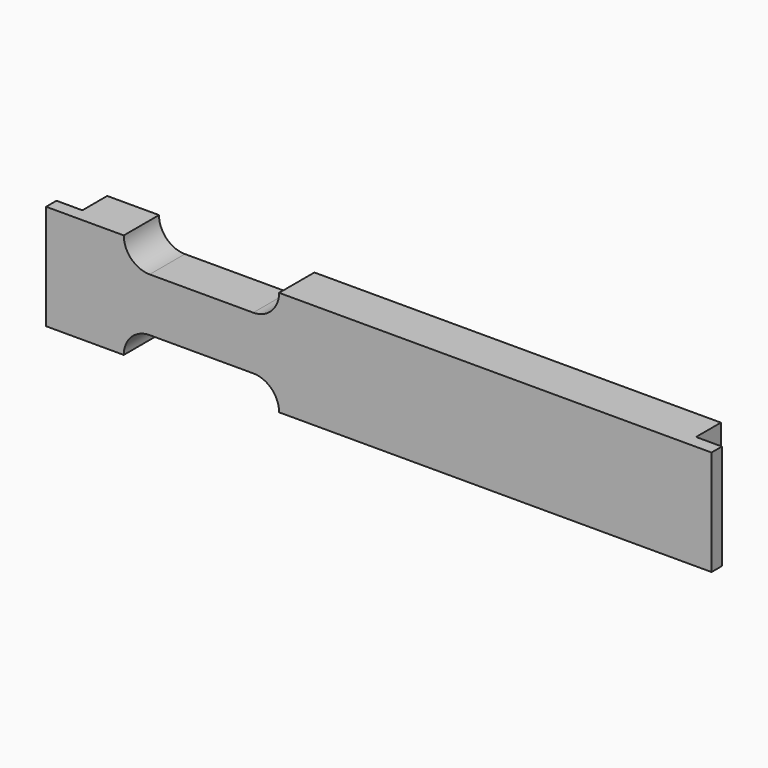
from build123d import *

# Parameters (mm, degrees)
PAD_DEPTH    = 20.32
POCKET_DEPTH = 21


with BuildPart() as part:
    # Sketch → Pad (new body)
    with BuildSketch(Plane.XY):
        Polygon((0, 0), (0, 2.51), (5, 2.51), (4.999966, 8.51), (123.5, 8.51), (123.5, 2.51), (128.5, 2.51), (128.5, 0), align=None)
    extrude(amount=PAD_DEPTH)

    # Sketch002 → Pocket (cut)
    with BuildSketch(Plane.XZ):
        with BuildLine():
            ThreePointArc((20, 5), (15, 0), (20, -5))
            Line((20, -5), (40, -5))
            ThreePointArc((40, -5), (45, 0), (40, 5))
            Line((40, 5), (20, 5))
        make_face()
        with BuildLine():
            ThreePointArc((20, 25.32), (15, 20.32), (20, 15.32))
            Line((20, 15.32), (40, 15.32))
            ThreePointArc((40, 15.32), (45, 20.32), (40, 25.32))
            Line((40, 25.32), (20, 25.32))
        make_face()
    extrude(amount=-POCKET_DEPTH, mode=Mode.SUBTRACT)


solid = part.part
